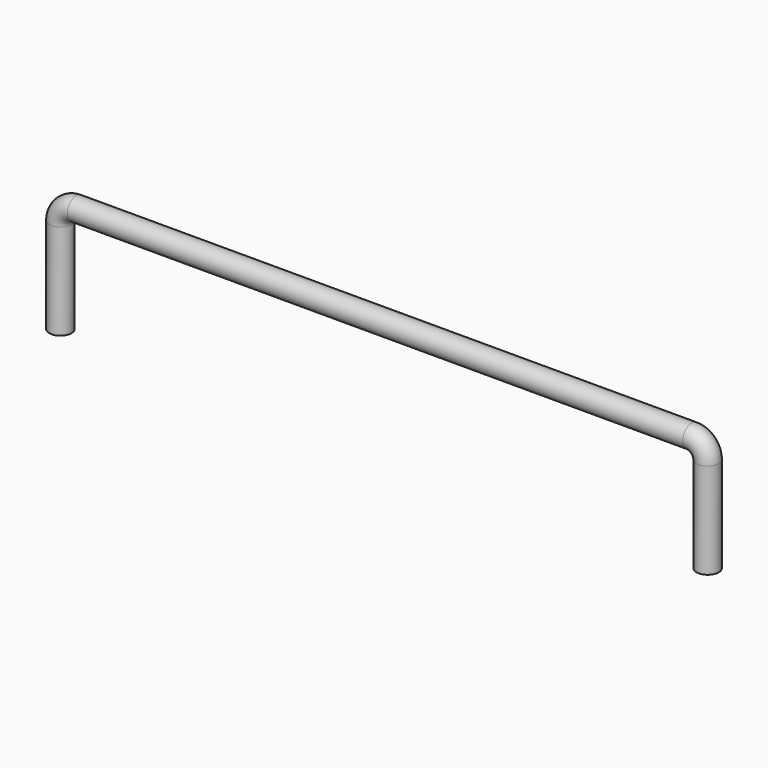
from build123d import *

# Parameters (mm, degrees)
SKETCH001_R = 0.35


with BuildPart() as part:
    # AdditivePipe: sweep along a path in Sketch
    with BuildLine(Plane.XZ) as additivepipe_path:
        Line((0, 0), (0, 3))
        ThreePointArc((0, 3), (0.146447, 3.353553), (0.5, 3.5))
        Line((0.5, 3.5), (19.82, 3.5))
        ThreePointArc((19.82, 3.5), (20.173553, 3.353553), (20.32, 3))
        Line((20.32, 3), (20.32, 0))
    # Sketch001 → AdditivePipe (sweep)
    with BuildSketch(Plane.XY):
        Circle(SKETCH001_R)
    sweep(path=additivepipe_path.line)


solid = part.part
